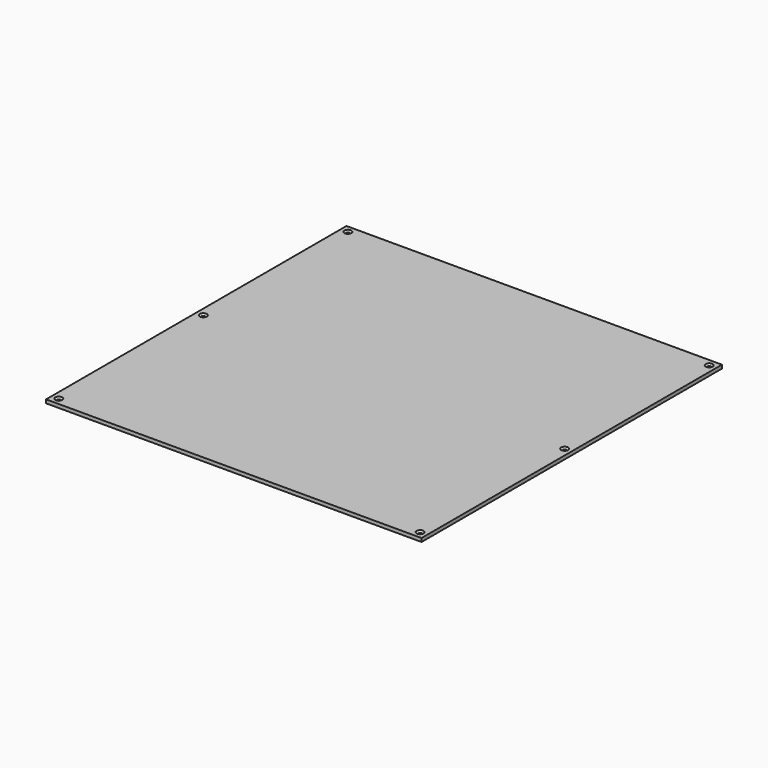
from build123d import *

# Parameters (mm, degrees)
SKETCH_W         = 320
SKETCH_H         = 320
PAD_DEPTH        = 3
HOLE_D           = 3.25
HOLE_DEPTH       = 3
HOLE_CSINK_D     = 6
HOLE_CSINK_ANGLE = 90


with BuildPart() as part:
    # Sketch → Pad (new body)
    with BuildSketch(Plane.XY):
        Rectangle(SKETCH_W, SKETCH_H)
    extrude(amount=PAD_DEPTH)

    # Hole
    with Locations(Plane.XY.offset(3)):
        with Locations((154, 154), (154, -154), (154, 0), (-154, -154), (-154, 154), (-154, 0)):
            CounterSinkHole(HOLE_D / 2, HOLE_CSINK_D / 2, depth=HOLE_DEPTH, counter_sink_angle=HOLE_CSINK_ANGLE)


solid = part.part
